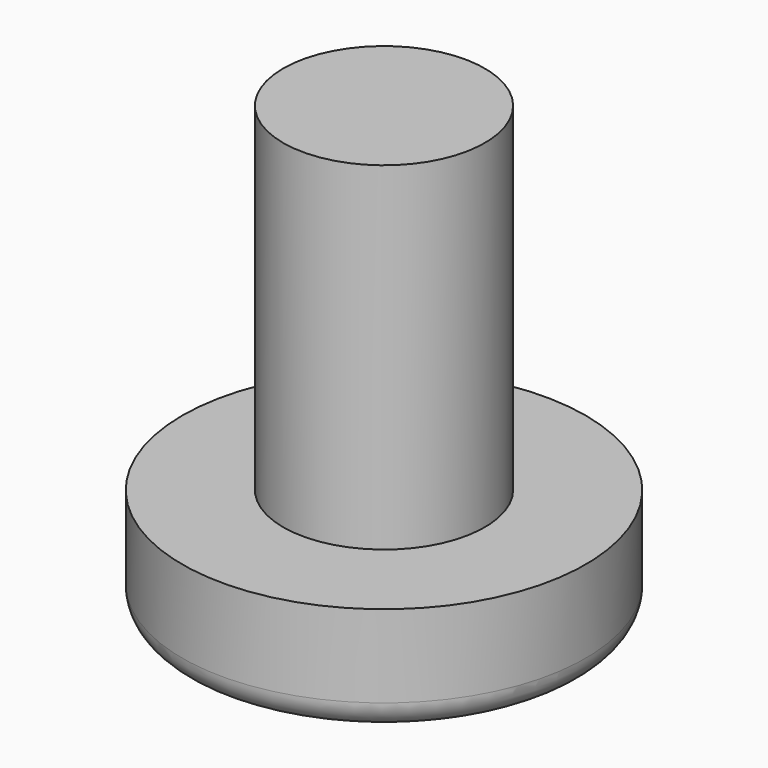
from build123d import *

# Parameters (mm, degrees)
F0_W   = 1.1
F0_H   = 3.69
F0_W_2 = 1.9
F0_H_2 = 0.3
F0_W_3 = 0.3
F0_H_3 = 0.9


with BuildPart() as f1:
    # F0 (on Front) → F1 (revolve)
    with BuildSketch(Plane.XZ):
        with Locations((-0.55, 1.845)):
            Rectangle(F0_W, F0_H)
        Polygon((0, -0.9), (0, 0), (-1.1, 0), (-1.9, 0), (-1.9, -0.9), align=None)
        with Locations((-0.95, -1.05)):
            Rectangle(F0_W_2, F0_H_2)
        with BuildLine():
            Line((-1.9, -1.2), (-1.9, -0.9))
            Line((-1.9, -0.9), (-2.2, -0.9))
            ThreePointArc((-2.2, -0.9), (-2.112132, -1.112132), (-1.9, -1.2))
        make_face()
        with Locations((-2.05, -0.45)):
            Rectangle(F0_W_3, F0_H_3)
    revolve(axis=Axis((0, 0, 1.845), (0, 0, 1)))


solid = f1.part
